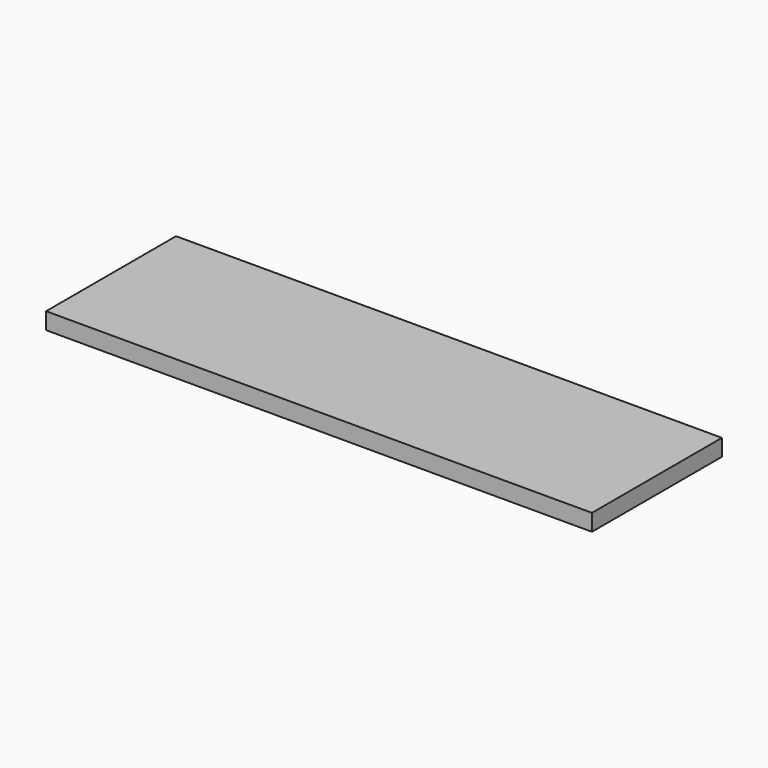
from build123d import *

# Parameters (mm, degrees)
SKETCH_W  = 588
SKETCH_H  = 175
PAD_DEPTH = 18


with BuildPart() as part:
    # Sketch → Pad (new body)
    with BuildSketch(Plane.XY):
        Rectangle(SKETCH_W, SKETCH_H)
    extrude(amount=PAD_DEPTH)


solid = part.part
